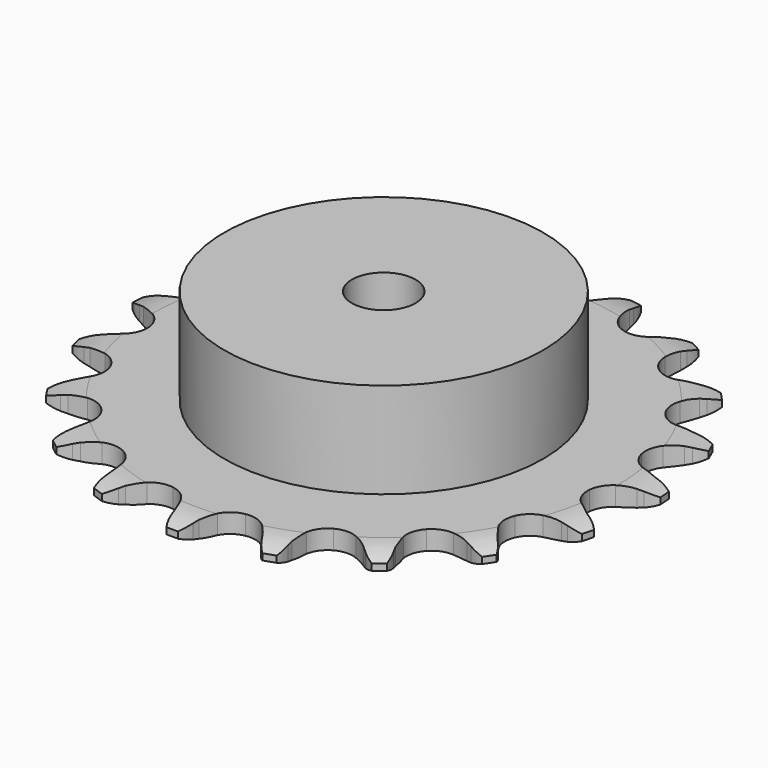
from build123d import *

# Parameters (mm, degrees)
PAD_DEPTH         = 3
SKETCH001_R       = 25
PAD001_DEPTH      = 18
SKETCH002_R       = 5
POCKET_DEPTH      = 0.001
POCKET_DEPTH_BACK = 18.001


with BuildPart() as part:
    # Sprocket → Pad (new body)
    with BuildSketch(Plane.XY):
        with BuildLine():
            ThreePointArc((-7.01224, 42.022052), (-5.72519, 40.816273), (-4.816168, 39.304956))
            Line((-4.816168, 39.304956), (-4.444574, 38.433988))
            ThreePointArc((-4.444574, 38.433988), (-3.843474, 37.247535), (-3.092149, 36.150036))
            ThreePointArc((-3.092149, 36.150036), (-1.719012, 35.042783), (0, 34.647165))
            ThreePointArc((0, 34.647165), (1.719012, 35.042783), (3.092149, 36.150036))
            ThreePointArc((3.092149, 36.150036), (3.843474, 37.247535), (4.444574, 38.433988))
            Line((4.444574, 38.433988), (4.816168, 39.304956))
            ThreePointArc((4.816168, 39.304956), (5.72519, 40.816273), (7.01224, 42.022052))
            ThreePointArc((7.01224, 42.022052), (7.838039, 40.463701), (8.207084, 38.739112))
            Line((8.207084, 38.739112), (8.275741, 37.794679))
            ThreePointArc((8.275741, 37.794679), (8.459031, 36.477334), (8.81329, 35.195346))
            ThreePointArc((8.81329, 35.195346), (9.752502, 33.70223), (11.249916, 32.769886))
            ThreePointArc((11.249916, 32.769886), (13.004244, 32.585906), (14.662505, 33.187308))
            Line((14.662505, 33.187308), (16.68325, 34.908378))
            ThreePointArc((16.68325, 34.908378), (16.992164, 35.267351), (17.317513, 35.611498))
            ThreePointArc((17.317513, 35.611498), (18.668006, 36.745769), (20.276836, 37.468311))
            ThreePointArc((20.276836, 37.468311), (20.551894, 35.726259), (20.34097, 33.975285))
            Line((20.34097, 33.975285), (20.099251, 33.059731))
            ThreePointArc((20.099251, 33.059731), (19.844868, 31.754249), (19.763672, 30.426695))
            ThreePointArc((19.763672, 30.426695), (20.167181, 28.709518), (21.280729, 27.341481))
            ThreePointArc((21.280729, 27.341481), (22.880264, 26.59784), (24.643952, 26.628221))
            Line((24.643952, 26.628221), (27.114038, 27.599903))
            ThreePointArc((27.114038, 27.599903), (27.522772, 27.839122), (27.942237, 28.058982))
            ThreePointArc((27.942237, 28.058982), (29.587854, 28.69329), (31.344122, 28.854297))
            ThreePointArc((31.344122, 28.854297), (31.038633, 27.117323), (30.270598, 25.529708))
            Line((30.270598, 25.529708), (29.744695, 24.742247))
            ThreePointArc((29.744695, 24.742247), (29.080206, 23.590098), (28.572353, 22.360839))
            ThreePointArc((28.572353, 22.360839), (28.396433, 20.605684), (29.005445, 18.950203))
            ThreePointArc((29.005445, 18.950203), (30.276853, 17.727486), (31.954843, 17.183552))
            Line((31.954843, 17.183552), (34.606598, 17.300551))
            ThreePointArc((34.606598, 17.300551), (35.07086, 17.394093), (35.538986, 17.465839))
            ThreePointArc((35.538986, 17.465839), (37.301398, 17.531448), (39.014785, 17.113472))
            ThreePointArc((39.014785, 17.113472), (38.161855, 15.569804), (36.919936, 14.317591))
            Line((36.919936, 14.317591), (36.16684, 13.743558))
            ThreePointArc((36.16684, 13.743558), (35.164253, 12.869594), (34.284777, 11.871839))
            ThreePointArc((34.284777, 11.871839), (33.54849, 10.268905), (33.586971, 8.505376))
            ThreePointArc((33.586971, 8.505376), (34.392475, 6.936084), (35.802932, 5.876779))
            Line((35.802932, 5.876779), (38.348997, 5.126415))
            ThreePointArc((38.348997, 5.126415), (38.818477, 5.064143), (39.284534, 4.980002))
            ThreePointArc((39.284534, 4.980002), (40.972757, 4.469802), (42.457592, 3.518136))
            ThreePointArc((42.457592, 3.518136), (41.149647, 2.335055), (39.568426, 1.553941))
            Line((39.568426, 1.553941), (38.669747, 1.25554))
            ThreePointArc((38.669747, 1.25554), (37.437707, 0.754469), (36.281913, 0.096341))
            ThreePointArc((36.281913, 0.096341), (35.065049, -1.18067), (34.528827, -2.86114))
            ThreePointArc((34.528827, -2.86114), (34.781139, -4.606951), (35.771218, -6.066834))
            Line((35.771218, -6.066834), (37.935687, -7.603247))
            ThreePointArc((37.935687, -7.603247), (38.359509, -7.814585), (38.772994, -8.045496))
            ThreePointArc((38.772994, -8.045496), (40.204083, -9.076217), (41.29946, -10.458444))
            ThreePointArc((41.29946, -10.458444), (39.678237, -11.152734), (37.929063, -11.378103))
            Line((37.929063, -11.378103), (36.982186, -11.368535))
            ThreePointArc((36.982186, -11.368535), (35.654205, -11.442413), (34.347341, -11.689597))
            ThreePointArc((34.347341, -11.689597), (32.781765, -12.5023), (31.728949, -13.917608))
            ThreePointArc((31.728949, -13.917608), (31.400726, -15.650751), (31.863137, -17.353011))
            Line((31.863137, -17.353011), (33.411456, -19.50898))
            ThreePointArc((33.411456, -19.50898), (33.743694, -19.846481), (34.059798, -20.199139))
            ThreePointArc((34.059798, -20.199139), (35.078672, -21.638687), (35.66589, -23.301689))
            ThreePointArc((35.66589, -23.301689), (33.907074, -23.43195), (32.179498, -23.077153))
            Line((32.179498, -23.077153), (31.287032, -22.760652))
            ThreePointArc((31.287032, -22.760652), (30.007016, -22.399333), (28.690701, -22.208785))
            ThreePointArc((28.690701, -22.208785), (26.946068, -22.469113), (25.490748, -23.465886))
            ThreePointArc((25.490748, -23.465886), (24.617558, -24.998549), (24.50219, -26.758721))
            Line((24.50219, -26.758721), (25.266576, -29.300611))
            ThreePointArc((25.266576, -29.300611), (25.471225, -29.727704), (25.655694, -30.163892))
            ThreePointArc((25.655694, -30.163892), (26.151942, -31.856269), (26.167368, -33.619835))
            ThreePointArc((26.167368, -33.619835), (24.461553, -33.171952), (22.942785, -32.275435))
            Line((22.942785, -32.275435), (22.201443, -31.6863))
            ThreePointArc((22.201443, -31.6863), (21.108101, -30.928938), (19.924979, -30.321307))
            ThreePointArc((19.924979, -30.321307), (18.190347, -30.001048), (16.490228, -30.471272))
            ThreePointArc((16.490228, -30.471272), (15.166695, -31.637367), (14.486052, -33.264708))
            Line((14.486052, -33.264708), (14.38367, -35.917067))
            ThreePointArc((14.38367, -35.917067), (14.438554, -36.387468), (14.471398, -36.85992))
            ThreePointArc((14.471398, -36.85992), (14.391244, -38.62173), (13.833205, -40.29475))
            ThreePointArc((13.833205, -40.29475), (12.365244, -39.317257), (11.219865, -37.976173))
            Line((11.219865, -37.976173), (10.709982, -37.178246))
            ThreePointArc((10.709982, -37.178246), (9.921797, -36.106912), (9.000076, -35.148046))
            ThreePointArc((9.000076, -35.148046), (7.463419, -34.281905), (5.702736, -34.174623))
            ThreePointArc((5.702736, -34.174623), (4.072286, -34.847785), (2.900124, -36.165948))
            Line((2.900124, -36.165948), (1.942071, -38.641351))
            ThreePointArc((1.942071, -38.641351), (1.841242, -39.104086), (1.718901, -39.561603))
            ThreePointArc((1.718901, -39.561603), (1.071032, -41.201928), (0, -42.603103))
            ThreePointArc((0, -42.603103), (-1.071032, -41.201928), (-1.718901, -39.561603))
            Line((-1.718901, -39.561603), (-1.942071, -38.641351))
            ThreePointArc((-1.942071, -38.641351), (-2.339689, -37.372142), (-2.900124, -36.165948))
            ThreePointArc((-2.900124, -36.165948), (-4.072286, -34.847785), (-5.702736, -34.174623))
            ThreePointArc((-5.702736, -34.174623), (-7.463419, -34.281905), (-9.000076, -35.148046))
            Line((-9.000076, -35.148046), (-10.709982, -37.178246))
            ThreePointArc((-10.709982, -37.178246), (-10.955597, -37.583169), (-11.219865, -37.976173))
            ThreePointArc((-11.219865, -37.976173), (-12.365244, -39.317257), (-13.833205, -40.29475))
            ThreePointArc((-13.833205, -40.29475), (-14.391244, -38.62173), (-14.471398, -36.85992))
            Line((-14.471398, -36.85992), (-14.38367, -35.917067))
            ThreePointArc((-14.38367, -35.917067), (-14.347633, -34.58752), (-14.486052, -33.264708))
            ThreePointArc((-14.486052, -33.264708), (-15.166695, -31.637367), (-16.490228, -30.471272))
            ThreePointArc((-16.490228, -30.471272), (-18.190347, -30.001048), (-19.924979, -30.321307))
            Line((-19.924979, -30.321307), (-22.201443, -31.6863))
            ThreePointArc((-22.201443, -31.6863), (-22.565228, -31.989532), (-22.942785, -32.275435))
            ThreePointArc((-22.942785, -32.275435), (-24.461553, -33.171952), (-26.167368, -33.619835))
            ThreePointArc((-26.167368, -33.619835), (-26.151942, -31.856269), (-25.655694, -30.163892))
            Line((-25.655694, -30.163892), (-25.266576, -29.300611))
            ThreePointArc((-25.266576, -29.300611), (-24.800788, -28.054805), (-24.50219, -26.758721))
            ThreePointArc((-24.50219, -26.758721), (-24.617558, -24.998549), (-25.490748, -23.465886))
            ThreePointArc((-25.490748, -23.465886), (-26.946068, -22.469113), (-28.690701, -22.208785))
            Line((-28.690701, -22.208785), (-31.287032, -22.760652))
            ThreePointArc((-31.287032, -22.760652), (-31.729566, -22.929334), (-32.179498, -23.077153))
            ThreePointArc((-32.179498, -23.077153), (-33.907074, -23.43195), (-35.66589, -23.301689))
            ThreePointArc((-35.66589, -23.301689), (-35.078672, -21.638687), (-34.059798, -20.199139))
            Line((-34.059798, -20.199139), (-33.411456, -19.50898))
            ThreePointArc((-33.411456, -19.50898), (-32.566393, -18.481915), (-31.863137, -17.353011))
            ThreePointArc((-31.863137, -17.353011), (-31.400726, -15.650751), (-31.728949, -13.917608))
            ThreePointArc((-31.728949, -13.917608), (-32.781765, -12.5023), (-34.347341, -11.689597))
            Line((-34.347341, -11.689597), (-36.982186, -11.368535))
            ThreePointArc((-36.982186, -11.368535), (-37.455513, -11.384386), (-37.929063, -11.378103))
            ThreePointArc((-37.929063, -11.378103), (-39.678237, -11.152734), (-41.29946, -10.458444))
            ThreePointArc((-41.29946, -10.458444), (-40.204083, -9.076217), (-38.772994, -8.045496))
            Line((-38.772994, -8.045496), (-37.935687, -7.603247))
            ThreePointArc((-37.935687, -7.603247), (-36.802924, -6.906224), (-35.771218, -6.066834))
            ThreePointArc((-35.771218, -6.066834), (-34.781139, -4.606951), (-34.528827, -2.86114))
            ThreePointArc((-34.528827, -2.86114), (-35.065049, -1.18067), (-36.281913, 0.096341))
            Line((-36.281913, 0.096341), (-38.669747, 1.25554))
            ThreePointArc((-38.669747, 1.25554), (-39.122574, 1.394236), (-39.568426, 1.553941))
            ThreePointArc((-39.568426, 1.553941), (-41.149647, 2.335055), (-42.457592, 3.518136))
            ThreePointArc((-42.457592, 3.518136), (-40.972757, 4.469802), (-39.284534, 4.980002))
            Line((-39.284534, 4.980002), (-38.348997, 5.126415))
            ThreePointArc((-38.348997, 5.126415), (-37.051287, 5.417865), (-35.802932, 5.876779))
            ThreePointArc((-35.802932, 5.876779), (-34.392475, 6.936084), (-33.586971, 8.505376))
            ThreePointArc((-33.586971, 8.505376), (-33.54849, 10.268905), (-34.284777, 11.871839))
            Line((-34.284777, 11.871839), (-36.16684, 13.743558))
            ThreePointArc((-36.16684, 13.743558), (-36.550097, 14.021772), (-36.919936, 14.317591))
            ThreePointArc((-36.919936, 14.317591), (-38.161855, 15.569804), (-39.014785, 17.113472))
            ThreePointArc((-39.014785, 17.113472), (-37.301398, 17.531448), (-35.538986, 17.465839))
            Line((-35.538986, 17.465839), (-34.606598, 17.300551))
            ThreePointArc((-34.606598, 17.300551), (-33.284568, 17.154843), (-31.954843, 17.183552))
            ThreePointArc((-31.954843, 17.183552), (-30.276853, 17.727486), (-29.005445, 18.950203))
            ThreePointArc((-29.005445, 18.950203), (-28.396433, 20.605684), (-28.572353, 22.360839))
            Line((-28.572353, 22.360839), (-29.744695, 24.742247))
            ThreePointArc((-29.744695, 24.742247), (-30.01685, 25.129831), (-30.270598, 25.529708))
            ThreePointArc((-30.270598, 25.529708), (-31.038633, 27.117323), (-31.344122, 28.854297))
            ThreePointArc((-31.344122, 28.854297), (-29.587854, 28.69329), (-27.942237, 28.058982))
            Line((-27.942237, 28.058982), (-27.114038, 27.599903))
            ThreePointArc((-27.114038, 27.599903), (-25.91095, 27.032828), (-24.643952, 26.628221))
            ThreePointArc((-24.643952, 26.628221), (-22.880264, 26.59784), (-21.280729, 27.341481))
            ThreePointArc((-21.280729, 27.341481), (-20.167181, 28.709518), (-19.763672, 30.426695))
            Line((-19.763672, 30.426695), (-20.099251, 33.059731))
            ThreePointArc((-20.099251, 33.059731), (-20.230812, 33.514683), (-20.34097, 33.975285))
            ThreePointArc((-20.34097, 33.975285), (-20.551894, 35.726259), (-20.276836, 37.468311))
            ThreePointArc((-20.276836, 37.468311), (-18.668006, 36.745769), (-17.317513, 35.611498))
            Line((-17.317513, 35.611498), (-16.68325, 34.908378))
            ThreePointArc((-16.68325, 34.908378), (-15.729479, 33.981387), (-14.662505, 33.187308))
            ThreePointArc((-14.662505, 33.187308), (-13.004244, 32.585906), (-11.249916, 32.769886))
            ThreePointArc((-11.249916, 32.769886), (-9.752502, 33.70223), (-8.81329, 35.195346))
            Line((-8.81329, 35.195346), (-8.275741, 37.794679))
            ThreePointArc((-8.275741, 37.794679), (-8.252451, 38.267698), (-8.207084, 38.739112))
            ThreePointArc((-8.207084, 38.739112), (-7.838039, 40.463701), (-7.01224, 42.022052))
        make_face()
    extrude(amount=PAD_DEPTH)

    # Sketch → Groove (revolve, cut)
    with BuildSketch(Plane.XZ):
        with BuildLine():
            Line((36.45, 0), (41.45, 0))
            Line((46.45, 0), (41.45, 0))
            Line((46.45, 3), (46.45, 0))
            Line((41.45, 3), (46.45, 3))
            Line((36.45, 3), (41.45, 3))
            ThreePointArc((41.45, 2), (38.99951, 2.747549), (36.45, 3))
            Line((41.45, 1), (41.45, 2))
            ThreePointArc((36.45, 0), (38.99951, 0.252451), (41.45, 1))
        make_face()
    revolve(axis=Axis((0, 0, 0), (0, 0, 1)), mode=Mode.SUBTRACT)

    # Sketch001 → Pad001 (join)
    with BuildSketch(Plane.XY):
        Circle(SKETCH001_R)
    extrude(amount=PAD001_DEPTH)

    # Sketch002 → Pocket (cut, two sides)
    with BuildSketch(Plane.XY) as pocket_sk:
        Circle(SKETCH002_R)
    extrude(amount=-POCKET_DEPTH, mode=Mode.SUBTRACT)
    extrude(pocket_sk.sketch, amount=POCKET_DEPTH_BACK, mode=Mode.SUBTRACT)


solid = part.part
